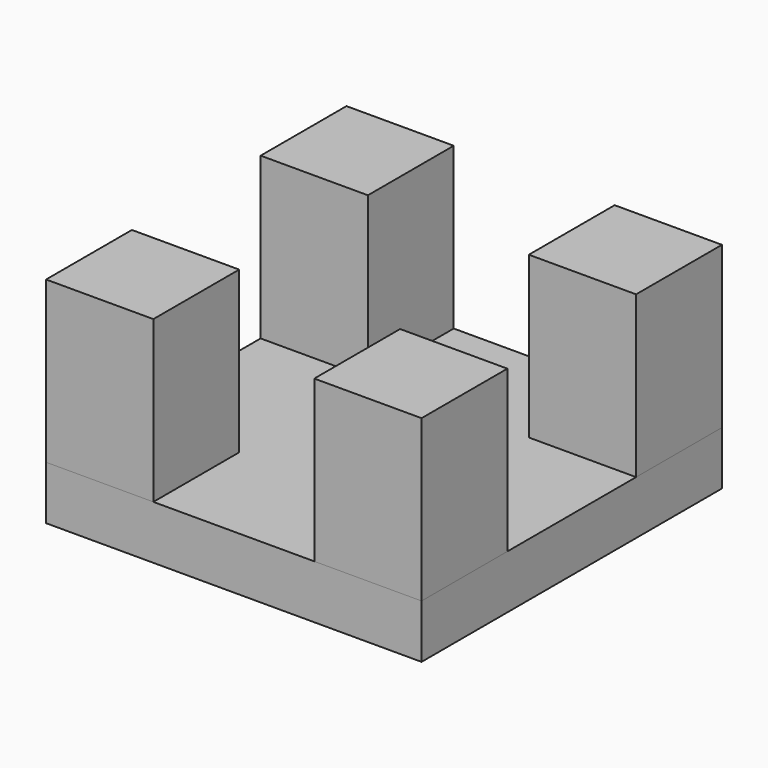
from build123d import *

# Parameters (mm, degrees)
F0_W     = 10
F0_H     = 10
F1_DEPTH = 15
F2_DEPTH = 5


with BuildPart() as f1:
    # F0 (on Top) → F1 (new body)
    with BuildSketch(Plane.XY):
        with Locations((35, 10)):
            Rectangle(F0_W, F0_H)
        with Locations((10, 10)):
            Rectangle(F0_W, F0_H)
        with Locations((10, 35)):
            Rectangle(F0_W, F0_H)
        with Locations((35, 35)):
            Rectangle(F0_W, F0_H)
    extrude(amount=F1_DEPTH)


with BuildPart() as f2:
    # F0 (on Top) → F2 (new body)
    with BuildSketch(Plane.XY):
        with Locations((10, 10)):
            Rectangle(F0_W, F0_H)
        Polygon((15, 15), (15, 5), (30, 5), (30, 15), (40, 15), (40, 30), (30, 30), (30, 40), (15, 40), (15, 30), (5, 30), (5, 15), align=None)
        with Locations((35, 10)):
            Rectangle(F0_W, F0_H)
        with Locations((10, 35)):
            Rectangle(F0_W, F0_H)
        with Locations((35, 35)):
            Rectangle(F0_W, F0_H)
    extrude(amount=-F2_DEPTH)


solid = Compound([f1.part, f2.part])
